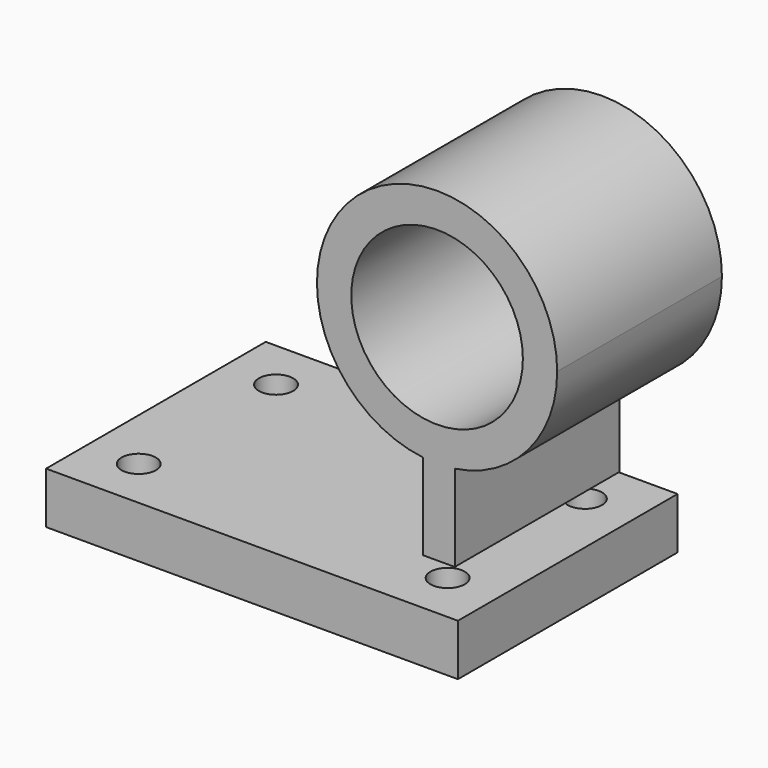
from build123d import *

# Parameters (mm, degrees)
F0_W     = 120
F0_H     = 15
F1_DEPTH = 80
F2_R     = 5
F3_DEPTH = 10
F4_R     = 25
F5_DEPTH = 60
F7_DEPTH = 10


with BuildPart() as f1:
    # F0 (on Front) → F1 (new body)
    with BuildSketch(Plane.XZ):
        with Locations((-60, 7.5)):
            Rectangle(F0_W, F0_H)
    extrude(amount=F1_DEPTH)

    # F2 (on face) → F3 (cut)
    with BuildSketch(Plane.XY.offset(15)):
        with Locations((-105, -15)):
            Circle(F2_R)
        with Locations((-15, -15)):
            Circle(F2_R)
        with Locations((-105, -65)):
            Circle(F2_R)
        with Locations((-15, -65)):
            Circle(F2_R)
    extrude(amount=-F3_DEPTH, mode=Mode.SUBTRACT)


with BuildPart() as f5:
    # F4 (on Front) → F5 (new body)
    with BuildSketch(Plane.XZ):
        with BuildLine():
            ThreePointArc((-16.9221, 40.381419), (4.432936, 52.145641), (12.924857, 75))
            ThreePointArc((12.924857, 75), (-45.342428, 101.146385), (-26.13991, 40.236835))
            ThreePointArc((-26.13991, 40.236835), (-21.526224, 40.004305), (-16.9221, 40.381419))
        make_face()
        with Locations((-22.075143, 75)):
            Circle(F4_R, mode=Mode.SUBTRACT)
        with BuildLine():
            ThreePointArc((-16.9221, 40.381419), (-21.526224, 40.004305), (-26.13991, 40.236835))
            Line((-26.13991, 40.236835), (-26.13991, 15.170539))
            Line((-26.13991, 15.170539), (-16.9221, 15.170539))
            Line((-16.9221, 15.170539), (-16.9221, 40.381419))
        make_face()
    extrude(amount=F5_DEPTH)

    # F6 (on Front) → F7 (join)
    with BuildSketch(Plane.XZ):
        with BuildLine():
            ThreePointArc((-26.215766, 40.246482), (-48.200118, 51.79663), (-57.046488, 75.001359))
            Line((-57.046488, 75.001359), (-75.001463, 15.022794))
            Line((-75.001463, 15.022794), (-26.139831, 15.170758))
            Line((-26.139831, 15.170758), (-26.215766, 40.246482))
        make_face()
    extrude(amount=F7_DEPTH)


solid = Compound([f1.part, f5.part])
